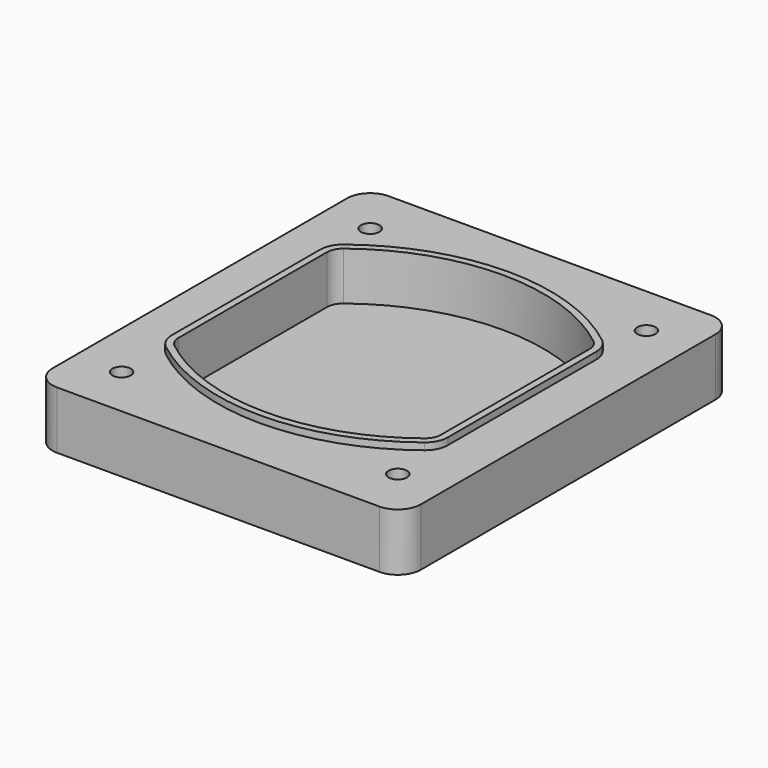
from build123d import *

# Parameters (mm, degrees)
F0_R     = 4
F1_DEPTH = 25
F2_DEPTH = 3
F3_DEPTH = 18


with BuildPart() as f1:
    # F0 (on Top) → F1 (new body)
    with BuildSketch(Plane.XY):
        with BuildLine():
            ThreePointArc((-80, -80), (-77.0710678119, -87.0710678119), (-70, -90))
            Line((-70, -90), (70, -90))
            ThreePointArc((70, -90), (77.0710678119, -87.0710678119), (80, -80))
            Line((80, -80), (80, 80))
            ThreePointArc((80, 80), (77.0710678119, 87.0710678119), (70, 90))
            Line((70, 90), (-70, 90))
            ThreePointArc((-70, 90), (-77.0710678119, 87.0710678119), (-80, 80))
            Line((-80, 80), (-80, -80))
        make_face()
        with Locations((-60, -67.5)):
            Circle(F0_R, mode=Mode.SUBTRACT)
        with Locations((60, -67.5)):
            Circle(F0_R, mode=Mode.SUBTRACT)
        with Locations((-60, 67.5)):
            Circle(F0_R, mode=Mode.SUBTRACT)
        with BuildLine():
            ThreePointArc((-64, 40.2934422872), (-62.5820384798, 46.4328484224), (-58.6153846154, 51.3286200352))
            ThreePointArc((-58.6153846154, 51.3286200352), (0, 71.5), (58.6153846154, 51.3286200352))
            ThreePointArc((58.6153846154, 51.3286200352), (62.5820384798, 46.4328484224), (64, 40.2934422872))
            Line((64, 40.2934422872), (64, -40.2934422872))
            ThreePointArc((64, -40.2934422872), (62.5820384798, -46.4328484224), (58.6153846154, -51.3286200352))
            ThreePointArc((58.6153846154, -51.3286200352), (0, -71.5), (-58.6153846154, -51.3286200352))
            ThreePointArc((-58.6153846154, -51.3286200352), (-62.5820384798, -46.4328484224), (-64, -40.2934422872))
            Line((-64, -40.2934422872), (-64, 40.2934422872))
        make_face(mode=Mode.SUBTRACT)
        with Locations((60, 67.5)):
            Circle(F0_R, mode=Mode.SUBTRACT)
        with BuildLine():
            ThreePointArc((58.6153846154, 51.3286200352), (0, 71.5), (-58.6153846154, 51.3286200352))
            ThreePointArc((-58.6153846154, 51.3286200352), (-62.5820384798, 46.4328484224), (-64, 40.2934422872))
            Line((-64, 40.2934422872), (-64, -40.2934422872))
            ThreePointArc((-64, -40.2934422872), (-62.5820384798, -46.4328484224), (-58.6153846154, -51.3286200352))
            ThreePointArc((-58.6153846154, -51.3286200352), (0, -71.5), (58.6153846154, -51.3286200352))
            ThreePointArc((58.6153846154, -51.3286200352), (62.5820384798, -46.4328484224), (64, -40.2934422872))
            Line((64, -40.2934422872), (64, 40.2934422872))
            ThreePointArc((64, 40.2934422872), (62.5820384798, 46.4328484224), (58.6153846154, 51.3286200352))
        make_face()
        with BuildLine():
            Line((-60, -40.2934422872), (-60, 40.2934422872))
            ThreePointArc((-60, 40.2934422872), (-58.9871703427, 44.6787323838), (-56.1538461538, 48.1757121072))
            ThreePointArc((-56.1538461538, 48.1757121072), (0, 67.5), (56.1538461538, 48.1757121072))
            ThreePointArc((56.1538461538, 48.1757121072), (58.9871703427, 44.6787323838), (60, 40.2934422872))
            Line((60, 40.2934422872), (60, -40.2934422872))
            ThreePointArc((60, -40.2934422872), (58.9871703427, -44.6787323838), (56.1538461538, -48.1757121072))
            ThreePointArc((56.1538461538, -48.1757121072), (0, -67.5), (-56.1538461538, -48.1757121072))
            ThreePointArc((-56.1538461538, -48.1757121072), (-58.9871703427, -44.6787323838), (-60, -40.2934422872))
        make_face(mode=Mode.SUBTRACT)
        with BuildLine():
            ThreePointArc((-56.1538461538, 48.1757121072), (-58.9871703427, 44.6787323838), (-60, 40.2934422872))
            Line((-60, 40.2934422872), (-60, -40.2934422872))
            ThreePointArc((-60, -40.2934422872), (-58.9871703427, -44.6787323838), (-56.1538461538, -48.1757121072))
            ThreePointArc((-56.1538461538, -48.1757121072), (0, -67.5), (56.1538461538, -48.1757121072))
            ThreePointArc((56.1538461538, -48.1757121072), (58.9871703427, -44.6787323838), (60, -40.2934422872))
            Line((60, -40.2934422872), (60, 40.2934422872))
            ThreePointArc((60, 40.2934422872), (58.9871703427, 44.6787323838), (56.1538461538, 48.1757121072))
            ThreePointArc((56.1538461538, 48.1757121072), (0, 67.5), (-56.1538461538, 48.1757121072))
        make_face()
        with BuildLine():
            ThreePointArc((54.3076923077, 45.8110311612), (56.2910192399, 43.3631453548), (57, 40.2934422872))
            Line((57, 40.2934422872), (57, -40.2934422872))
            ThreePointArc((57, -40.2934422872), (56.2910192399, -43.3631453548), (54.3076923077, -45.8110311612))
            ThreePointArc((54.3076923077, -45.8110311612), (0, -64.5), (-54.3076923077, -45.8110311612))
            ThreePointArc((-54.3076923077, -45.8110311612), (-56.2910192399, -43.3631453548), (-57, -40.2934422872))
            Line((-57, -40.2934422872), (-57, 40.2934422872))
            ThreePointArc((-57, 40.2934422872), (-56.2910192399, 43.3631453548), (-54.3076923077, 45.8110311612))
            ThreePointArc((-54.3076923077, 45.8110311612), (0, 64.5), (54.3076923077, 45.8110311612))
        make_face(mode=Mode.SUBTRACT)
        with BuildLine():
            Line((57, -40.2934422872), (57, 40.2934422872))
            ThreePointArc((57, 40.2934422872), (56.2910192399, 43.3631453548), (54.3076923077, 45.8110311612))
            ThreePointArc((54.3076923077, 45.8110311612), (0, 64.5), (-54.3076923077, 45.8110311612))
            ThreePointArc((-54.3076923077, 45.8110311612), (-56.2910192399, 43.3631453548), (-57, 40.2934422872))
            Line((-57, 40.2934422872), (-57, -40.2934422872))
            ThreePointArc((-57, -40.2934422872), (-56.2910192399, -43.3631453548), (-54.3076923077, -45.8110311612))
            ThreePointArc((-54.3076923077, -45.8110311612), (0, -64.5), (54.3076923077, -45.8110311612))
            ThreePointArc((54.3076923077, -45.8110311612), (56.2910192399, -43.3631453548), (57, -40.2934422872))
        make_face()
    extrude(amount=-F1_DEPTH)

    # F0 (on Top) → F2 (join)
    with BuildSketch(Plane.XY):
        with BuildLine():
            ThreePointArc((-56.1538461538, 48.1757121072), (-58.9871703427, 44.6787323838), (-60, 40.2934422872))
            Line((-60, 40.2934422872), (-60, -40.2934422872))
            ThreePointArc((-60, -40.2934422872), (-58.9871703427, -44.6787323838), (-56.1538461538, -48.1757121072))
            ThreePointArc((-56.1538461538, -48.1757121072), (0, -67.5), (56.1538461538, -48.1757121072))
            ThreePointArc((56.1538461538, -48.1757121072), (58.9871703427, -44.6787323838), (60, -40.2934422872))
            Line((60, -40.2934422872), (60, 40.2934422872))
            ThreePointArc((60, 40.2934422872), (58.9871703427, 44.6787323838), (56.1538461538, 48.1757121072))
            ThreePointArc((56.1538461538, 48.1757121072), (0, 67.5), (-56.1538461538, 48.1757121072))
        make_face()
        with BuildLine():
            ThreePointArc((54.3076923077, 45.8110311612), (56.2910192399, 43.3631453548), (57, 40.2934422872))
            Line((57, 40.2934422872), (57, -40.2934422872))
            ThreePointArc((57, -40.2934422872), (56.2910192399, -43.3631453548), (54.3076923077, -45.8110311612))
            ThreePointArc((54.3076923077, -45.8110311612), (0, -64.5), (-54.3076923077, -45.8110311612))
            ThreePointArc((-54.3076923077, -45.8110311612), (-56.2910192399, -43.3631453548), (-57, -40.2934422872))
            Line((-57, -40.2934422872), (-57, 40.2934422872))
            ThreePointArc((-57, 40.2934422872), (-56.2910192399, 43.3631453548), (-54.3076923077, 45.8110311612))
            ThreePointArc((-54.3076923077, 45.8110311612), (0, 64.5), (54.3076923077, 45.8110311612))
        make_face(mode=Mode.SUBTRACT)
    extrude(amount=F2_DEPTH)

    # F0 (on Top) → F3 (cut)
    with BuildSketch(Plane.XY):
        with BuildLine():
            Line((57, -40.2934422872), (57, 40.2934422872))
            ThreePointArc((57, 40.2934422872), (56.2910192399, 43.3631453548), (54.3076923077, 45.8110311612))
            ThreePointArc((54.3076923077, 45.8110311612), (0, 64.5), (-54.3076923077, 45.8110311612))
            ThreePointArc((-54.3076923077, 45.8110311612), (-56.2910192399, 43.3631453548), (-57, 40.2934422872))
            Line((-57, 40.2934422872), (-57, -40.2934422872))
            ThreePointArc((-57, -40.2934422872), (-56.2910192399, -43.3631453548), (-54.3076923077, -45.8110311612))
            ThreePointArc((-54.3076923077, -45.8110311612), (0, -64.5), (54.3076923077, -45.8110311612))
            ThreePointArc((54.3076923077, -45.8110311612), (56.2910192399, -43.3631453548), (57, -40.2934422872))
        make_face()
    extrude(amount=-F3_DEPTH, mode=Mode.SUBTRACT)


solid = f1.part
